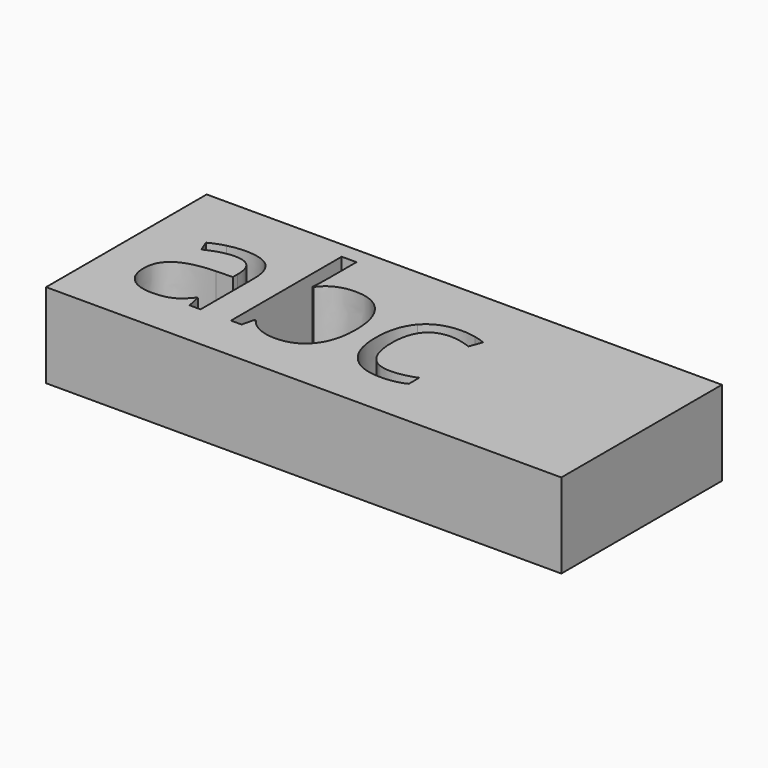
from build123d import *

# Parameters (mm, degrees)
F1_W     = 154.6539068222
F1_H     = 60.2537170053
F2_DEPTH = 25.4


with BuildPart() as f2:
    # F1 (on face) → F2 (new body)
    with BuildSketch(Plane.XY):
        with Locations((-1.9112378359, 44.7821803391)):
            Rectangle(F1_W, F1_H)
        with BuildLine():
            Line((-43.9133035187, 28.4521430731), (-47.2029023286, 28.4521430731))
            Line((-47.2029023286, 28.4521430731), (-48.0829768154, 32.6218163698))
            Line((-48.0829768154, 32.6218163698), (-48.2965871278, 32.6218163698))
            add(Edge.make_bspline(
                [(-48.2965871278, 32.6218163698), (-50.4839567261, 29.870515547), (-52.6585097056, 28.8921803165)],
                knots=[0, 0, 0, 1, 1, 1], degree=2))
            add(Edge.make_bspline(
                [(-52.6585097056, 28.8921803165), (-54.8330626851, 27.913845086), (-58.0970282576, 27.913845086)],
                knots=[0, 0, 0, 1, 1, 1], degree=2))
            add(Edge.make_bspline(
                [(-58.0970282576, 27.913845086), (-62.4461342167, 27.913845086), (-64.9154694272, 30.1610255717)],
                knots=[0, 0, 0, 1, 1, 1], degree=2))
            add(Edge.make_bspline(
                [(-64.9154694272, 30.1610255717), (-67.3848046378, 32.4082060575), (-67.3848046378, 36.5437017042)],
                knots=[0, 0, 0, 1, 1, 1], degree=2))
            add(Edge.make_bspline(
                [(-67.3848046378, 36.5437017042), (-67.3848046378, 45.4042574598), (-53.2096243114, 45.8314780844)],
                knots=[0, 0, 0, 1, 1, 1], degree=2))
            Line((-53.2096243114, 45.8314780844), (-48.2453206528, 45.9938219218))
            Line((-48.2453206528, 45.9938219218), (-48.2453206528, 47.8137817829))
            add(Edge.make_bspline(
                [(-48.2453206528, 47.8137817829), (-48.2453206528, 51.2571800177), (-49.7235040142, 52.8977072164)],
                knots=[0, 0, 0, 1, 1, 1], degree=2))
            add(Edge.make_bspline(
                [(-49.7235040142, 52.8977072164), (-51.2016873755, 54.5382344151), (-54.4656529479, 54.5382344151)],
                knots=[0, 0, 0, 1, 1, 1], degree=2))
            add(Edge.make_bspline(
                [(-54.4656529479, 54.5382344151), (-58.1226614951, 54.5382344151), (-62.7366442414, 52.2995983419)],
                knots=[0, 0, 0, 1, 1, 1], degree=2))
            Line((-62.7366442414, 52.2995983419), (-64.1037502404, 55.6917301017))
            add(Edge.make_bspline(
                [(-64.1037502404, 55.6917301017), (-61.9420138796, 56.8623146133), (-59.3658735128, 57.5287787878)],
                knots=[0, 0, 0, 1, 1, 1], degree=2))
            add(Edge.make_bspline(
                [(-59.3658735128, 57.5287787878), (-56.7897331461, 58.1952429622), (-54.1922317481, 58.1952429622)],
                knots=[0, 0, 0, 1, 1, 1], degree=2))
            add(Edge.make_bspline(
                [(-54.1922317481, 58.1952429622), (-48.9630513023, 58.1952429622), (-46.4381774105, 55.8754349703)],
                knots=[0, 0, 0, 1, 1, 1], degree=2))
            add(Edge.make_bspline(
                [(-46.4381774105, 55.8754349703), (-43.9133035187, 53.5556269784), (-43.9133035187, 48.4289794824)],
                knots=[0, 0, 0, 1, 1, 1], degree=2))
            Line((-43.9133035187, 48.4289794824), (-43.9133035187, 28.4521430731))
        make_face(mode=Mode.SUBTRACT)
        with BuildLine():
            add(Edge.make_bspline(
                [(17.8115323328, 29.4432949223), (14.8807988476, 27.913845086), (10.4206155261, 27.913845086)],
                knots=[0, 0, 0, 1, 1, 1], degree=2))
            add(Edge.make_bspline(
                [(10.4206155261, 27.913845086), (4.0635726311, 27.913845086), (0.5774523339, 31.8271860079)],
                knots=[0, 0, 0, 1, 1, 1], degree=2))
            add(Edge.make_bspline(
                [(0.5774523339, 31.8271860079), (-2.9086679634, 35.7405269299), (-2.9086679634, 42.9007445992)],
                knots=[0, 0, 0, 1, 1, 1], degree=2))
            add(Edge.make_bspline(
                [(-2.9086679634, 42.9007445992), (-2.9086679634, 50.240394931), (0.6329910151, 54.2477243903)],
                knots=[0, 0, 0, 1, 1, 1], degree=2))
            add(Edge.make_bspline(
                [(0.6329910151, 54.2477243903), (4.1746499935, 58.2550538497), (10.7111255509, 58.2550538497)],
                knots=[0, 0, 0, 1, 1, 1], degree=2))
            add(Edge.make_bspline(
                [(10.7111255509, 58.2550538497), (12.8215954367, 58.2550538497), (14.9320653226, 57.7979277813)],
                knots=[0, 0, 0, 1, 1, 1], degree=2))
            add(Edge.make_bspline(
                [(14.9320653226, 57.7979277813), (17.0425352084, 57.3408017129), (18.2387529575, 56.7256040134)],
                knots=[0, 0, 0, 1, 1, 1], degree=2))
            Line((18.2387529575, 56.7256040134), (16.8801913711, 52.9660625163))
            add(Edge.make_bspline(
                [(16.8801913711, 52.9660625163), (15.4105524222, 53.5556269784), (13.6760366861, 53.9401255406)],
                knots=[0, 0, 0, 1, 1, 1], degree=2))
            add(Edge.make_bspline(
                [(13.6760366861, 53.9401255406), (11.9415209499, 54.3246241028), (10.608592601, 54.3246241028)],
                knots=[0, 0, 0, 1, 1, 1], degree=2))
            add(Edge.make_bspline(
                [(10.608592601, 54.3246241028), (1.688225958, 54.3246241028), (1.688225958, 42.9520110742)],
                knots=[0, 0, 0, 1, 1, 1], degree=2))
            add(Edge.make_bspline(
                [(1.688225958, 42.9520110742), (1.688225958, 37.5604867909), (3.8627789375, 34.6767475744)],
                knots=[0, 0, 0, 1, 1, 1], degree=2))
            add(Edge.make_bspline(
                [(3.8627789375, 34.6767475744), (6.0373319171, 31.793008358), (10.3095381637, 31.793008358)],
                knots=[0, 0, 0, 1, 1, 1], degree=2))
            add(Edge.make_bspline(
                [(10.3095381637, 31.793008358), (13.9665467108, 31.793008358), (17.8115323328, 33.3651802567)],
                knots=[0, 0, 0, 1, 1, 1], degree=2))
            Line((17.8115323328, 33.3651802567), (17.8115323328, 29.4432949223))
        make_face(mode=Mode.SUBTRACT)
        with BuildLine():
            add(Edge.make_bspline(
                [(-30.3533208919, 53.8205037657), (-27.2602435693, 58.1952429622), (-21.1680774616, 58.1952429622)],
                knots=[0, 0, 0, 1, 1, 1], degree=2))
            add(Edge.make_bspline(
                [(-21.1680774616, 58.1952429622), (-15.4005990286, 58.1952429622), (-12.2092609624, 54.2562688028)],
                knots=[0, 0, 0, 1, 1, 1], degree=2))
            add(Edge.make_bspline(
                [(-12.2092609624, 54.2562688028), (-9.0179228961, 50.3172946434), (-9.0179228961, 43.1143549116)],
                knots=[0, 0, 0, 1, 1, 1], degree=2))
            add(Edge.make_bspline(
                [(-9.0179228961, 43.1143549116), (-9.0179228961, 35.9028707672), (-12.2348941998, 31.9083579266)],
                knots=[0, 0, 0, 1, 1, 1], degree=2))
            add(Edge.make_bspline(
                [(-12.2348941998, 31.9083579266), (-15.4518655036, 27.913845086), (-21.1680774616, 27.913845086)],
                knots=[0, 0, 0, 1, 1, 1], degree=2))
            add(Edge.make_bspline(
                [(-21.1680774616, 27.913845086), (-24.0304556468, 27.913845086), (-26.3929857012, 28.9690800289)],
                knots=[0, 0, 0, 1, 1, 1], degree=2))
            add(Edge.make_bspline(
                [(-26.3929857012, 28.9690800289), (-28.7555157556, 30.0243149718), (-30.3533208919, 32.2202289826)],
                knots=[0, 0, 0, 1, 1, 1], degree=2))
            Line((-30.3533208919, 32.2202289826), (-30.6780085666, 32.2202289826))
            Line((-30.6780085666, 32.2202289826), (-31.6093495284, 28.4521430731))
            Line((-31.6093495284, 28.4521430731), (-34.7878709759, 28.4521430731))
            Line((-34.7878709759, 28.4521430731), (-34.7878709759, 70.003621028))
            Line((-34.7878709759, 70.003621028), (-30.3533208919, 70.003621028))
            Line((-30.3533208919, 70.003621028), (-30.3533208919, 59.9041254609))
            add(Edge.make_bspline(
                [(-30.3533208919, 59.9041254609), (-30.3533208919, 56.5119937011), (-30.5669312042, 53.8205037657)],
                knots=[0, 0, 0, 1, 1, 1], degree=2))
            Line((-30.5669312042, 53.8205037657), (-30.3533208919, 53.8205037657))
        make_face(mode=Mode.SUBTRACT)
    extrude(amount=F2_DEPTH)


solid = f2.part
